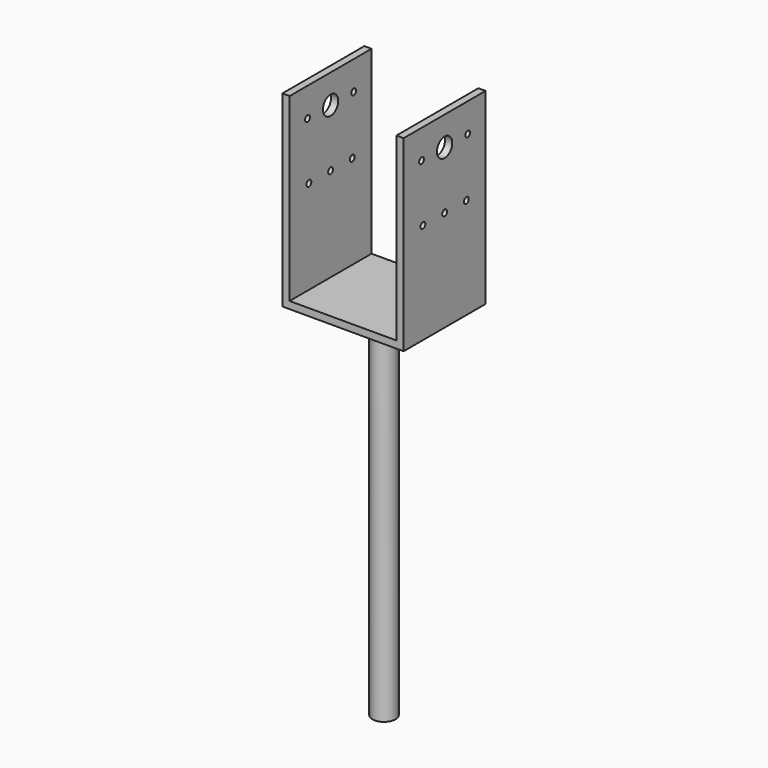
from build123d import *

# Parameters (mm, degrees)
SKETCH_W        = 84
SKETCH_H        = 71
PAD_DEPTH       = 130
SKETCH001_W     = 74
SKETCH001_H     = 71
POCKET_DEPTH    = 125
SKETCH002_R     = 8
PAD001_DEPTH    = 250
SKETCH003_R     = 2.1
SKETCH003_R_2   = 6.6
POCKET001_DEPTH = 84.001


with BuildPart() as part:
    # Sketch → Pad (new body)
    with BuildSketch(Plane.XY):
        Rectangle(SKETCH_W, SKETCH_H)
    extrude(amount=PAD_DEPTH)

    # Sketch001 → Pocket (cut)
    with BuildSketch(Plane.XY.offset(130)):
        Rectangle(SKETCH001_W, SKETCH001_H)
    extrude(amount=-POCKET_DEPTH, mode=Mode.SUBTRACT)

    # Sketch002 → Pad001 (new body)
    with BuildSketch(Plane(origin=(0, 0, 0), x_dir=(1, 0, 0), z_dir=(0, 0, -1))):
        Circle(SKETCH002_R)
    extrude(amount=PAD001_DEPTH)

    # Sketch003 → Pocket001 (cut, through all)
    with BuildSketch(Plane.YZ.offset(42)):
        with Locations((-20, 110)):
            Circle(SKETCH003_R)
        with Locations((20, 110)):
            Circle(SKETCH003_R)
        with Locations((0, 110)):
            Circle(SKETCH003_R_2)
        with Locations((0, 70)):
            Circle(SKETCH003_R)
        with Locations((-18.808843, 70)):
            Circle(SKETCH003_R)
        with Locations((18.808843, 70)):
            Circle(SKETCH003_R)
    extrude(amount=-POCKET001_DEPTH, mode=Mode.SUBTRACT)


solid = part.part
